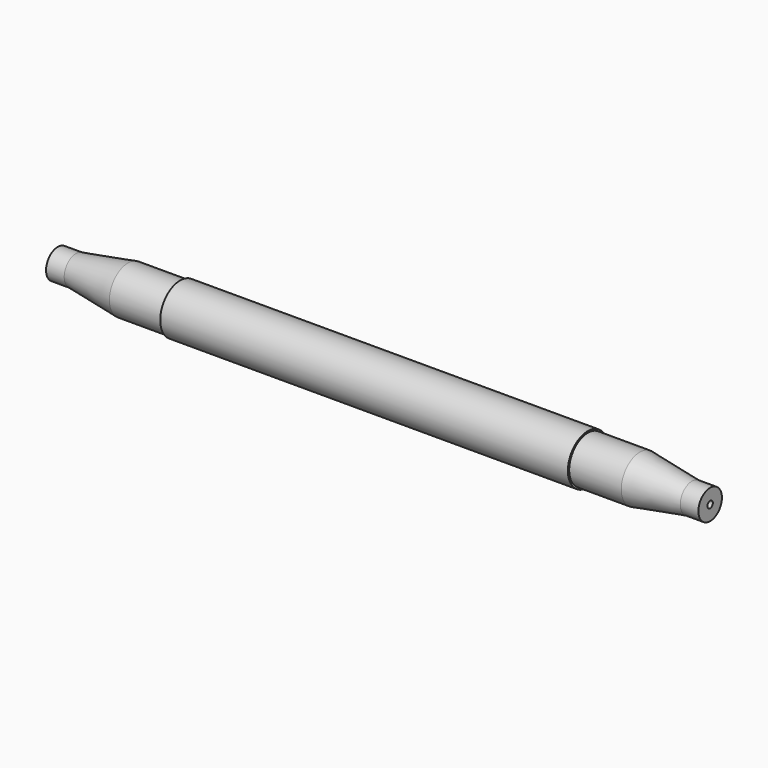
from build123d import *

# Parameters (mm, degrees)
F0_R      = 69.85
F1_DEPTH  = 571.5
F2_R      = 65.405
F3_DEPTH  = 146.0754
F3_FACE_R = 65.405
F5_R      = 41.275
F7_R      = 41.275
F8_DEPTH  = 50.8
F10_D     = 19.05
F10_DEPTH = 53.975
F10_TIP   = 5.7231973962


with BuildPart() as f1:
    # F0 (on Right) → F1 (new body, symmetric)
    with BuildSketch(Plane.YZ):
        Circle(F0_R)
    extrude(amount=F1_DEPTH, both=True)

    # F2 (on face) → F3 (join)
    with BuildSketch(Plane.YZ.offset(571.5)):
        Circle(F2_R)
    extrude(amount=F3_DEPTH)

    # F3_face (on face) → F6 section 0
    with BuildSketch(Plane.YZ.offset(717.5754)):
        Circle(F3_FACE_R)
    # F5 (on offset) → F6 section 1
    with BuildSketch(Plane.YZ.offset(863.6254)):
        Circle(F5_R)
    loft()

    # F7 (on face) → F8 (join)
    with BuildSketch(Plane.YZ.offset(863.6254)):
        Circle(F7_R)
    extrude(amount=F8_DEPTH)

    # F10
    with Locations(Plane.YZ.offset(914.4254)):
        with Locations((0, 0)):
            Hole(F10_D / 2, depth=F10_DEPTH)
            with Locations((0, 0, -(F10_DEPTH + F10_TIP / 2))):  # 118° drill point
                Cone(0, F10_D / 2, F10_TIP, mode=Mode.SUBTRACT)

    # F11: F1 across plane


with BuildPart() as f1_1:
    add(f1.part)
    add(f1.part.mirror(Plane.YZ))


solid = f1_1.part
